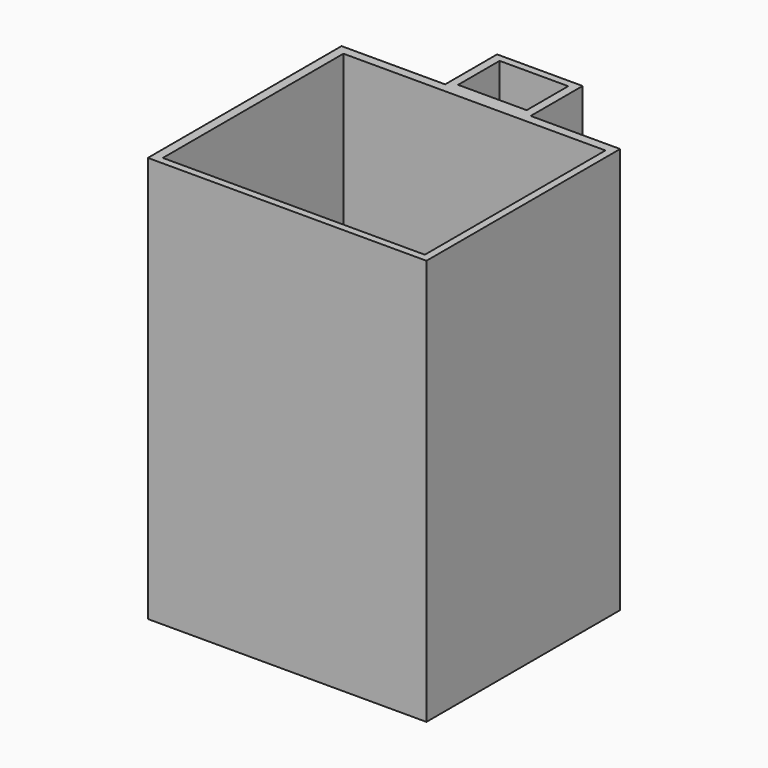
from build123d import *

# Parameters (mm, degrees)
F0_W     = 101.2655906379
F0_H     = 147.5641950965
F1_DEPTH = 88
F2_W     = 95.2334385365
F2_H     = 82.0597519632
F3_DEPTH = 145
F4_W     = 31.0928518884
F4_H     = 23.0526924133
F5_DEPTH = 23.6
F6_W     = 24.9381754547
F6_H     = 18.8800219912
F7_DEPTH = 23.0526924133


with BuildPart() as f1:
    # F0 (on Front) → F1 (new body)
    with BuildSketch(Plane.XZ):
        with Locations((-24.6599856764, 0.2118237317)):
            Rectangle(F0_W, F0_H)
    extrude(amount=F1_DEPTH)

    # F2 (on face) → F3 (cut)
    with BuildSketch(Plane.XY.offset(73.9939212799)):
        with Locations((-24.3404442444, -44.3385933759)):
            Rectangle(F2_W, F2_H)
    extrude(amount=-F3_DEPTH, mode=Mode.SUBTRACT)

    # F4 (on face) → F5 (join)
    with BuildSketch(Plane(origin=(0, 0, 0), x_dir=(-1, 0, 0), z_dir=(0, 1, 0))):
        with Locations((22.0921824221, 62.4675750732)):
            Rectangle(F4_W, F4_H)
    extrude(amount=F5_DEPTH)

    # F6 (on face) → F7 (cut, through all)
    with BuildSketch(Plane.XY.offset(73.9939212799)):
        with Locations((-22.1208585426, 11.5075943759)):
            Rectangle(F6_W, F6_H)
    extrude(amount=-F7_DEPTH, mode=Mode.SUBTRACT)


solid = f1.part
